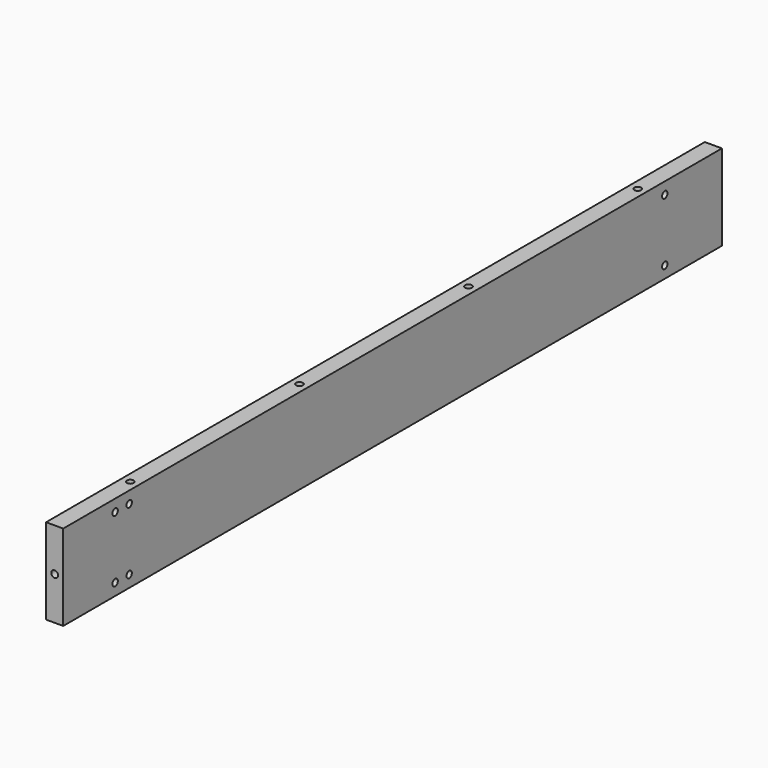
from build123d import *

# Parameters (mm, degrees)
SKETCH006_W     = 609.6
SKETCH006_H     = 63.5
PAD002_DEPTH    = 6.35
SKETCH007_R     = 2.5
POCKET001_DEPTH = 25
SKETCH008_R     = 2.55
POCKET002_DEPTH = 25
SKETCH016_R     = 2.5
POCKET007_DEPTH = 12.701


with BuildPart() as part:
    # Sketch006 → Pad002 (new body, symmetric)
    with BuildSketch(Plane.YZ):
        Rectangle(SKETCH006_W, SKETCH006_H)
    extrude(amount=PAD002_DEPTH, both=True)

    # Sketch007 (on Face4 of Pad002) → Pocket001 (cut)
    with BuildSketch(Plane(origin=(0, -304.8, 0), x_dir=(0, 0, -1), z_dir=(0, -1, 0))):
        Circle(SKETCH007_R)
    pocket001 = extrude(amount=-POCKET001_DEPTH, mode=Mode.SUBTRACT)

    # Mirrored001: Pocket001 across XZ
    add(pocket001.mirror(Plane.XZ), mode=Mode.SUBTRACT)

    # Sketch008 → Pocket002 (cut)
    with BuildSketch(Plane(origin=(0, 0, 31.75), x_dir=(0, -1, 0), z_dir=(0, 0, 1))):
        with Locations((-234.8, 0)):
            Circle(SKETCH008_R)
        with Locations((-78.266667, 0)):
            Circle(SKETCH008_R)
        with Locations((78.266667, 0)):
            Circle(SKETCH008_R)
        with Locations((234.8, 0)):
            Circle(SKETCH008_R)
    pocket002 = extrude(amount=-POCKET002_DEPTH, mode=Mode.SUBTRACT)

    # Mirrored: Pocket002 across XY
    add(pocket002.mirror(Plane.XY), mode=Mode.SUBTRACT)

    # Sketch016 (on Face4 of Mirrored) → Pocket007 (cut, through all)
    with BuildSketch(Plane.YZ.offset(6.35)):
        with Locations((-256.75, 23)):
            Circle(SKETCH016_R)
        with Locations((-256.75, -23)):
            Circle(SKETCH016_R)
        with Locations((-243.75, 23)):
            Circle(SKETCH016_R)
        with Locations((-243.75, -23)):
            Circle(SKETCH016_R)
        with Locations((251.9, 23)):
            Circle(SKETCH016_R)
        with Locations((251.9, -23)):
            Circle(SKETCH016_R)
    extrude(amount=-POCKET007_DEPTH, mode=Mode.SUBTRACT)


with BuildPart() as part_1:
    # Body002 placement: moved
    add(part.part.moved(Location((0, 76, 237))))


solid = part_1.part
